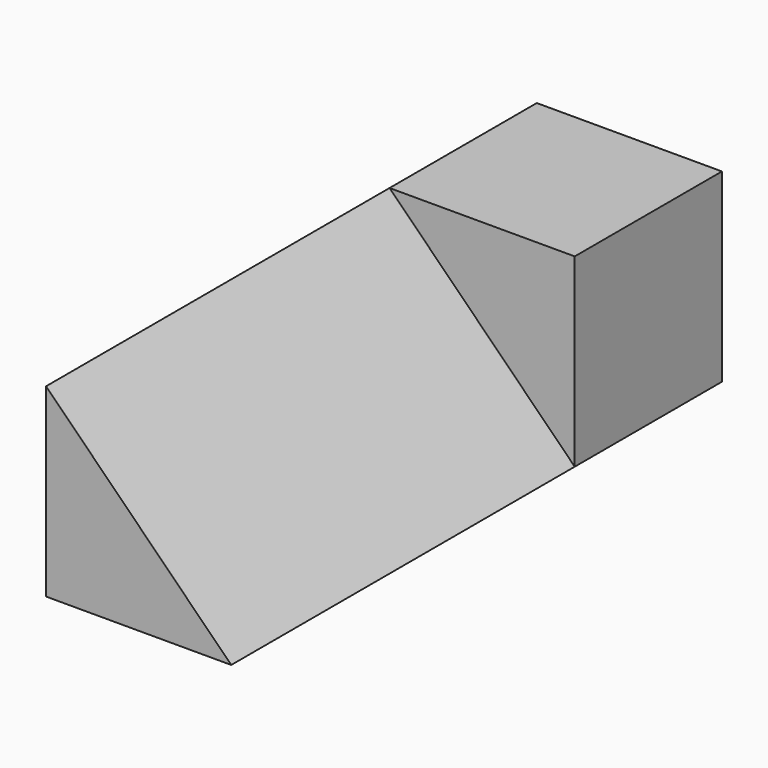
from build123d import *

# Parameters (mm, degrees)
F0_W     = 76.679155
F0_H     = 76.679148
F1_DEPTH = 76.2
F3_DEPTH = 177.8


with BuildPart() as f1:
    # F0 (on Front) → F1 (new body)
    with BuildSketch(Plane.XZ):
        with Locations((38.339577, 38.339574)):
            Rectangle(F0_W, F0_H)
    extrude(amount=F1_DEPTH)

    # F2 (on face) → F3 (join)
    with BuildSketch(Plane.XZ.offset(76.2)):
        Polygon((76.679155, 0), (0, 76.679148), (0, 0), align=None)
    extrude(amount=F3_DEPTH)


solid = f1.part
